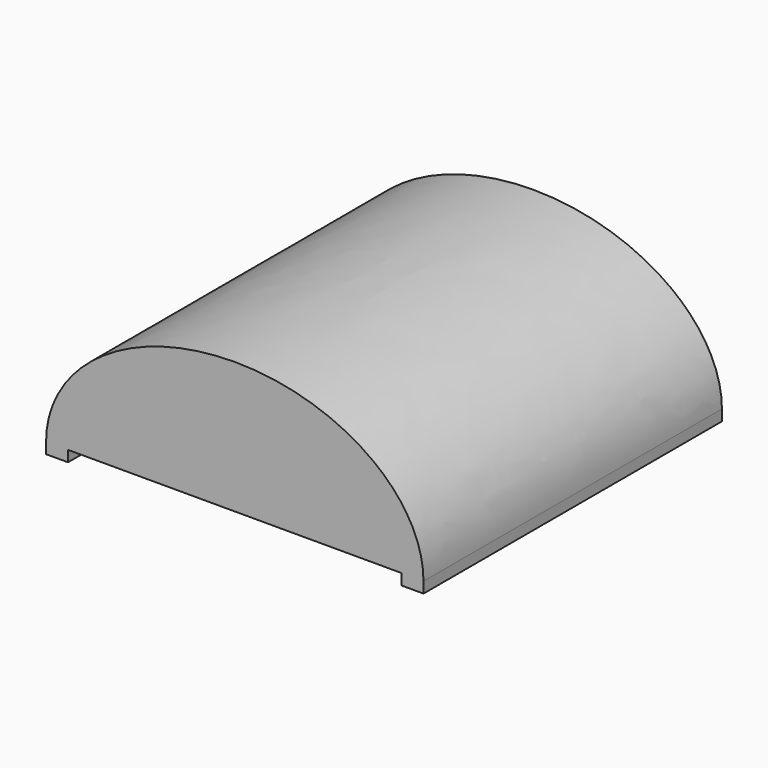
from build123d import *

# Parameters (mm, degrees)
F1_DEPTH = 53.975
F2_R     = 9.5715122456
F3_DEPTH = 10.16


with BuildPart() as f1:
    # F0 (on Front) → F1 (new body)
    with BuildSketch(Plane.XZ):
        with BuildLine():
            Line((27.305, -1.5875), (27.305, 0))
            add(Edge.make_bspline(
                [(27.305, 0), (27.305, 19.05), (0, 19.05), (-27.305, 19.05), (-27.305, 0)],
                knots=[0, 0, 0, 1.5707963268, 1.5707963268, 3.1415926536, 3.1415926536, 3.1415926536], degree=2, weights=[1, 0.7071067812, 1, 0.7071067812, 1]))
            Line((-27.305, 0), (-27.305, -1.5875))
            Line((-27.305, -1.5875), (-24.13, -1.5875))
            Line((-24.13, -1.5875), (-24.13, 0))
            Line((-24.13, 0), (24.1236202419, 0))
            Line((24.1236202419, 0), (24.1236202419, -1.5875))
            Line((24.1236202419, -1.5875), (27.305, -1.5875))
        make_face()
    extrude(amount=F1_DEPTH)

    # F2 (on face) → F3 (cut)
    with BuildSketch(Plane(origin=(0, 0, 0), x_dir=(1, 0, 0), z_dir=(0, 0, -1))):
        with Locations((0, 26.9875)):
            Circle(F2_R)
    extrude(amount=-F3_DEPTH, mode=Mode.SUBTRACT)


solid = f1.part
